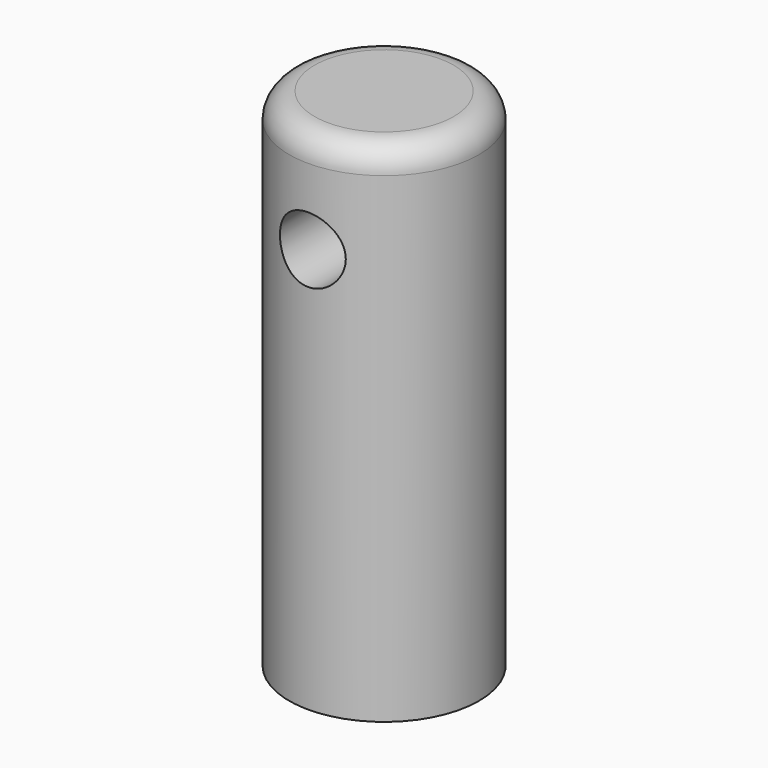
from build123d import *

# Parameters (mm, degrees)
F0_R          = 4.7625
F1_DEPTH      = 25.4
F2_R          = 1.651
F3_DEPTH      = 4.7635
F3_DEPTH_BACK = 25.4
F4_R          = 1.27


with BuildPart() as f1:
    # F0 (on Top) → F1 (new body)
    with BuildSketch(Plane.XY):
        Circle(F0_R)
    extrude(amount=-F1_DEPTH)

    # F2 (on Front) → F3 (cut, two sides)
    with BuildSketch(Plane.XZ) as f3_sk:
        with Locations((0, -5.08)):
            Circle(F2_R)
    extrude(amount=-F3_DEPTH, mode=Mode.SUBTRACT)
    extrude(f3_sk.sketch, amount=F3_DEPTH_BACK, mode=Mode.SUBTRACT)

    # F4
    f4_edges = [f1.edges().sort_by_distance(p)[0] for p in [
        (-4.7625, 0, 0),
    ]]
    fillet(f4_edges, radius=F4_R)


solid = f1.part
